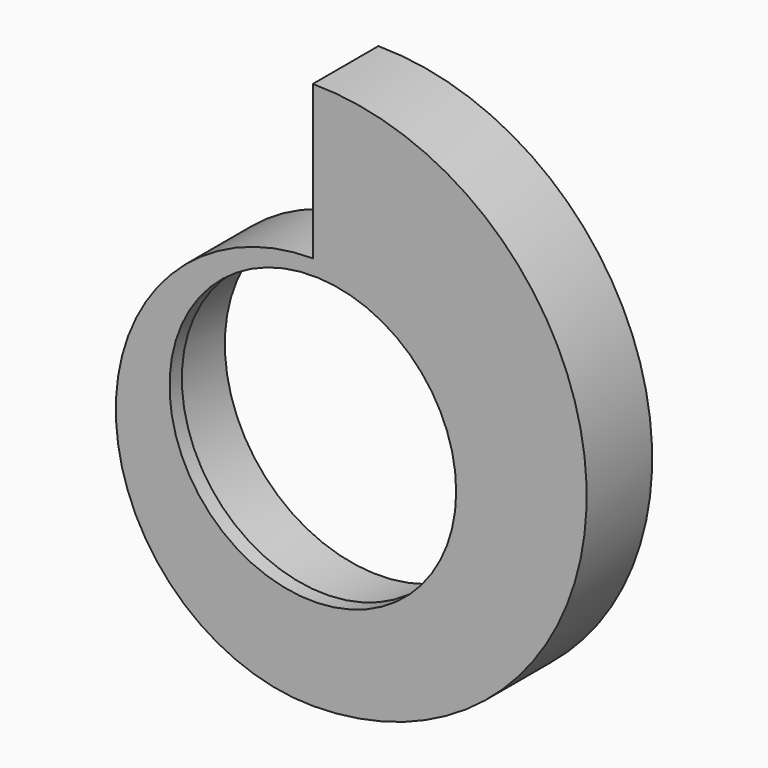
from build123d import *

# Parameters (mm, degrees)
F0_R     = 150
F1_DEPTH = 80
F2_R     = 150
F3_DEPTH = 65
F4_R     = 140
F5_DEPTH = 80.001
F6_R     = 29.726832
F7_DEPTH = 25


with BuildPart() as f1:
    # F0 (on Front) → F1 (new body)
    with BuildSketch(Plane.XZ):
        with BuildLine():
            Line((0, 305), (0, 155))
            ThreePointArc((0, 155), (-192.5, -37.5), (0, -230))
            ThreePointArc((0, -230), (267.5, 37.5), (0, 305))
        make_face()
        Circle(F0_R, mode=Mode.SUBTRACT)
        Circle(F0_R)
    extrude(amount=F1_DEPTH)

    # F2 (on Front) → F3 (cut)
    with BuildSketch(Plane.XZ):
        Circle(F2_R)
    extrude(amount=F3_DEPTH, mode=Mode.SUBTRACT)

    # F4 (on Front) → F5 (cut, through all)
    with BuildSketch(Plane.XZ):
        Circle(F4_R)
    extrude(amount=F5_DEPTH, mode=Mode.SUBTRACT)

    # F6 (on face) → F7 (cut)
    with BuildSketch(Plane(origin=(0, 0, 0), x_dir=(-1, 0, 0), z_dir=(0, 1, 0))):
        with Locations((-137.861013, 162.993148)):
            Circle(F6_R)
    extrude(amount=-F7_DEPTH, mode=Mode.SUBTRACT)


solid = f1.part
